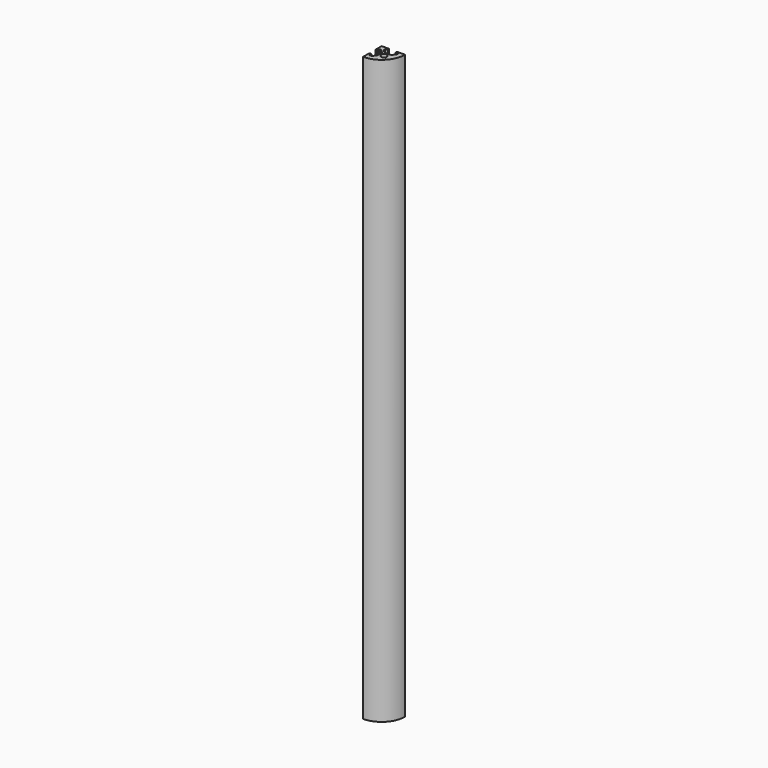
from build123d import *

# Parameters (mm, degrees)
F0_R     = 2.5
F1_DEPTH = 500


with BuildPart() as f1:
    # F0 (on Top) → F1 (new body)
    with BuildSketch(Plane.XY):
        with BuildLine():
            Line((0, 6.4), (0, 0))
            ThreePointArc((0, 0), (14.142136, 5.857864), (20, 20))
            Line((20, 20), (13.6, 20))
            Line((13.6, 20), (13.6, 19.5))
            Line((13.6, 19.5), (13.1, 19.5))
            Line((13.1, 19.5), (13.1, 18.2))
            Line((13.1, 18.2), (15.5, 18.2))
            Line((15.5, 18.2), (15.5, 16.6))
            Line((15.5, 16.6), (12.8, 13.9))
            Line((12.8, 13.9), (10, 13.9))
            Line((10, 13.9), (7.2, 13.9))
            Line((7.2, 13.9), (4.5, 16.6))
            Line((4.5, 16.6), (4.5, 18.2))
            Line((4.5, 18.2), (6.9, 18.2))
            Line((6.9, 18.2), (6.9, 19.5))
            Line((6.9, 19.5), (6.4, 19.5))
            Line((6.4, 19.5), (6.4, 20))
            Line((6.4, 20), (0, 20))
            Line((0, 20), (0, 13.6))
            Line((0, 13.6), (0.5, 13.6))
            Line((0.5, 13.6), (0.5, 13.1))
            Line((0.5, 13.1), (1.8, 13.1))
            Line((1.8, 13.1), (1.8, 15.5))
            Line((1.8, 15.5), (3.4, 15.5))
            Line((3.4, 15.5), (6.1, 12.8))
            Line((6.1, 12.8), (6.1, 10))
            Line((6.1, 10), (6.1, 7.2))
            Line((6.1, 7.2), (3.4, 4.5))
            Line((3.4, 4.5), (1.8, 4.5))
            Line((1.8, 4.5), (1.8, 6.9))
            Line((1.8, 6.9), (0.5, 6.9))
            Line((0.5, 6.9), (0.5, 6.4))
            Line((0.5, 6.4), (0, 6.4))
        make_face()
        with Locations((10, 10)):
            Circle(F0_R, mode=Mode.SUBTRACT)
    extrude(amount=F1_DEPTH)


solid = f1.part
